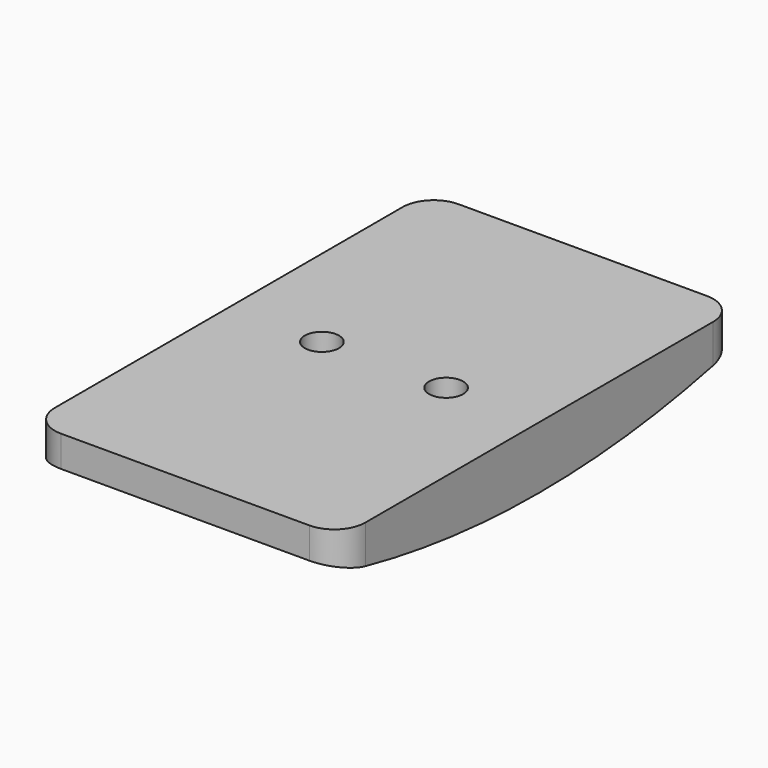
from build123d import *

# Parameters (mm, degrees)
F0_W     = 50
F0_H     = 80
F0_R     = 2.75
F1_DEPTH = 10
F3_DEPTH = 50.001
F4_R     = 5


with BuildPart() as f1:
    # F0 (on Top) → F1 (new body)
    with BuildSketch(Plane.XY):
        Rectangle(F0_W, F0_H)
        with Locations((-10, 0)):
            Circle(F0_R, mode=Mode.SUBTRACT)
        with Locations((10, 0)):
            Circle(F0_R, mode=Mode.SUBTRACT)
    extrude(amount=F1_DEPTH)

    # F2 (on face) → F3 (cut, through all)
    with BuildSketch(Plane.YZ.offset(25)):
        with BuildLine():
            ThreePointArc((40, 5), (20.1556440913, 1.2548449991), (-5.632e-07, 0))
            Line((-5.632e-07, 0), (40, 0))
            Line((40, 0), (40, 5))
        make_face()
        with BuildLine():
            ThreePointArc((-5.632e-07, 0), (-20.1556446502, 1.254845069), (-40, 5))
            Line((-40, 5), (-40, 0))
            Line((-40, 0), (-5.632e-07, 0))
        make_face()
    extrude(amount=-F3_DEPTH, mode=Mode.SUBTRACT)

    # F4
    f4_edges = [f1.edges().sort_by_distance(p)[0] for p in [
        (25, -40, 7.5),
        (-25, -40, 7.5),
        (25, 40, 7.5),
        (-25, 40, 7.5),
    ]]
    fillet(f4_edges, radius=F4_R)


solid = f1.part
